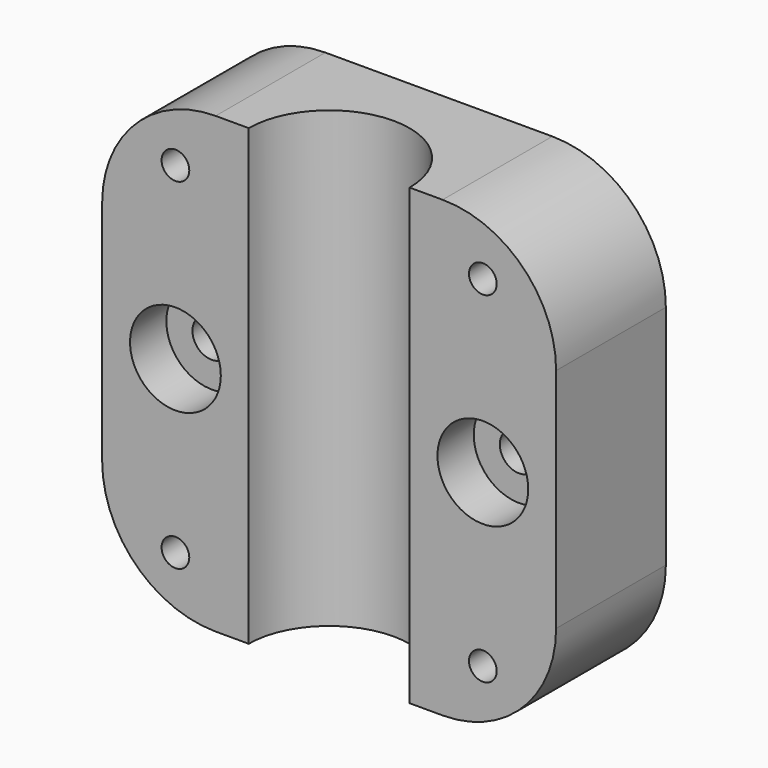
from build123d import *

# Parameters (mm, degrees)
F0_W      = 50.8
F0_H      = 50.8
F1_DEPTH  = 50.8
F2_R      = 9
F3_DEPTH  = 407.416
F4_W      = 60.1204171121
F4_H      = 25.4
F5_DEPTH  = 338.582
F6_R      = 5.08
F7_DEPTH  = 5.08
F8_R      = 2.159
F9_DEPTH  = 25.4
F10_R     = 1.5494
F11_DEPTH = 25.4
F12_R     = 1.5494
F12_R_2   = 2.159
F13_DEPTH = 25.4
F14_R     = 5.08
F15_DEPTH = 5.08
F18_R     = 12.7
F20_DEPTH = 72.39


with BuildPart() as f1:
    # F0 (on Top) → F1 (new body)
    with BuildSketch(Plane.XY):
        Rectangle(F0_W, F0_H)
    extrude(amount=F1_DEPTH)

    # F2 (on face) → F3 (cut)
    with BuildSketch(Plane(origin=(0, 0, 0), x_dir=(1, 0, 0), z_dir=(0, 0, -1))):
        Circle(F2_R)
    extrude(amount=-F3_DEPTH, mode=Mode.SUBTRACT)

    # F4 (on face) → F5 (cut)
    with BuildSketch(Plane(origin=(0, 0, 0), x_dir=(1, 0, 0), z_dir=(0, 0, -1))):
        with Locations((4.6602085561, 12.7)):
            Rectangle(F4_W, F4_H)
    extrude(amount=-F5_DEPTH, mode=Mode.SUBTRACT)

    # F6 (on face) → F7 (cut)
    with BuildSketch(Plane.XZ):
        with Locations((-17.2, 25.4)):
            Circle(F6_R)
    extrude(amount=-F7_DEPTH, mode=Mode.SUBTRACT)

    # F8 (on face) → F9 (cut)
    with BuildSketch(Plane.XZ.offset(-5.08)):
        with Locations((-17.2, 25.4)):
            Circle(F8_R)
    extrude(amount=-F9_DEPTH, mode=Mode.SUBTRACT)

    # F10 (on face) → F11 (cut)
    with BuildSketch(Plane.XZ):
        with Locations((-17.2, 44.4713309407)):
            Circle(F10_R)
    extrude(amount=-F11_DEPTH, mode=Mode.SUBTRACT)

    # F12 (on face) → F13 (cut)
    with BuildSketch(Plane.XZ):
        with Locations((17.2, 44.4713309407)):
            Circle(F12_R)
        with Locations((17.2, 25.4)):
            Circle(F12_R_2)
    extrude(amount=-F13_DEPTH, mode=Mode.SUBTRACT)

    # F14 (on face) → F15 (cut)
    with BuildSketch(Plane.XZ):
        with Locations((17.2, 25.4)):
            Circle(F14_R)
    extrude(amount=-F15_DEPTH, mode=Mode.SUBTRACT)

    # F17: F1 across plane


with BuildPart() as f1_1:
    add(f1.part)
    add(f1.part.mirror(Plane(origin=(0, 13.6714489466, 25.4), x_dir=(1, 0, 0), z_dir=(0, 0, 1))), mode=Mode.INTERSECT)

    # F18
    f18_edges = [f1_1.edges().sort_by_distance(p)[0] for p in [
        (-25.4, 12.7, 0),
        (-25.4, 12.7, 50.8),
        (25.4, 12.7, 0),
        (25.4, 12.7, 50.8),
    ]]
    fillet(f18_edges, radius=F18_R)

    # F19 (on face) → F20 (cut)
    with BuildSketch(Plane(origin=(0, 0, 0), x_dir=(1, 0, 0), z_dir=(0, 0, -1))):
        Polygon((37.3146161437, -15.35), (0, -15.35), (-44.7141490877, -15.35), (-42.6479764283, -31.9298505783), (43.3826521039, -33.9571945369), align=None)
    extrude(amount=-F20_DEPTH, mode=Mode.SUBTRACT)


solid = f1_1.part
